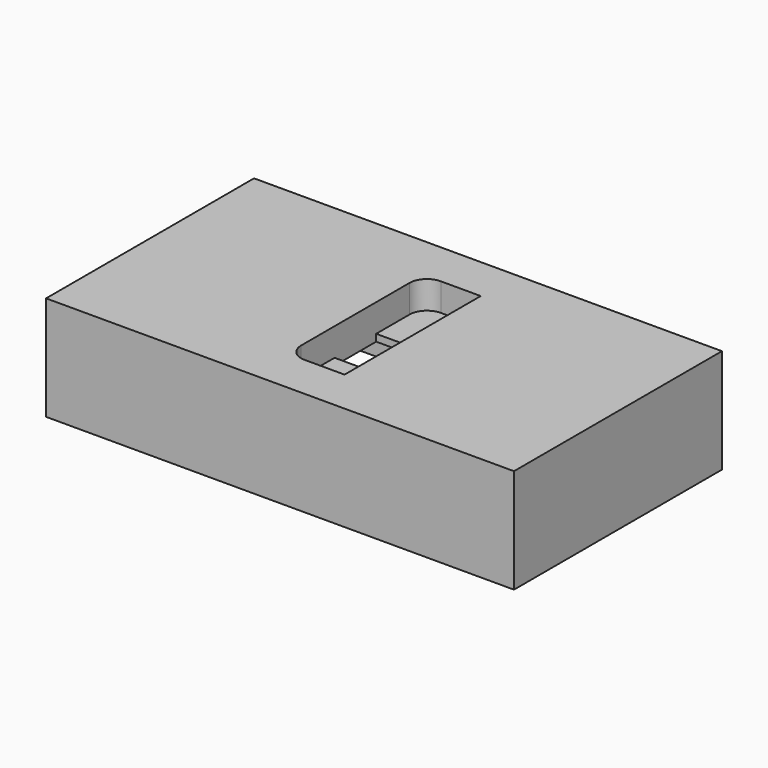
from build123d import *

# Parameters (mm, degrees)
F0_W      = 134.552986
F0_H      = 74.75166
F1_DEPTH  = 30
F3_DEPTH  = 8
F4_W      = 125.513256
F4_H      = 63.625834
F5_DEPTH  = 20
F6_W      = 16.467378
F6_H      = 14.950332
F7_DEPTH  = 2
F8_W      = 3.476821
F8_H      = 15.298014
F9_DEPTH  = 10
F10_W     = 21.382451
F10_H     = 15.298014
F11_DEPTH = 5
F12_R     = 5


with BuildPart() as f1:
    # F0 (on Top) → F1 (new body)
    with BuildSketch(Plane.XY):
        Rectangle(F0_W, F0_H)
    extrude(amount=F1_DEPTH)

    # F2 (on face) → F3 (cut)
    with BuildSketch(Plane.XY.offset(30)):
        with BuildLine():
            Line((8.233689, -24.47048), (8.233689, 24.47048))
            Line((8.233689, 24.47048), (-3.233689, 24.47048))
            ThreePointArc((-3.233689, 24.47048), (-6.769223, 23.006014), (-8.233689, 19.47048))
            Line((-8.233689, 19.47048), (-8.233689, -19.47048))
            ThreePointArc((-8.233689, -19.47048), (-6.769223, -23.006014), (-3.233689, -24.47048))
            Line((-3.233689, -24.47048), (8.233689, -24.47048))
        make_face()
    extrude(amount=-F3_DEPTH, mode=Mode.SUBTRACT)

    # F4 (on face) → F5 (cut)
    with BuildSketch(Plane(origin=(0, 0, 0), x_dir=(1, 0, 0), z_dir=(0, 0, -1))):
        Rectangle(F4_W, F4_H)
    extrude(amount=-F5_DEPTH, mode=Mode.SUBTRACT)

    # F6 (on face) → F7 (cut, through all)
    with BuildSketch(Plane.XY.offset(22)):
        Rectangle(F6_W, F6_H)
    extrude(amount=-F7_DEPTH, mode=Mode.SUBTRACT)

    # F8 (on face) → F9 (join)
    with BuildSketch(Plane(origin=(0, 0, 20), x_dir=(1, 0, 0), z_dir=(0, 0, -1))):
        with Locations((-31.291391, 0)):
            Rectangle(F8_W, F8_H)
        with Locations((31.291391, 0)):
            Rectangle(F8_W, F8_H)
    extrude(amount=F9_DEPTH)

    # F10 (on face) → F11 (join)
    with BuildSketch(Plane(origin=(0, 0, 10), x_dir=(1, 0, 0), z_dir=(0, 0, -1))):
        with Locations((-40.244206, 0)):
            Rectangle(F10_W, F10_H)
        with Locations((40.244206, 0)):
            Rectangle(F10_W, F10_H)
    extrude(amount=F11_DEPTH)

    # F12
    f12_edges = [f1.edges().sort_by_distance(p)[0] for p in [
        (-50.935432, -7.649007, 7.5),
        (-50.935432, 7.649007, 7.5),
        (50.935432, 7.649007, 7.5),
        (50.935432, -7.649007, 7.5),
    ]]
    fillet(f12_edges, radius=F12_R)


solid = f1.part
